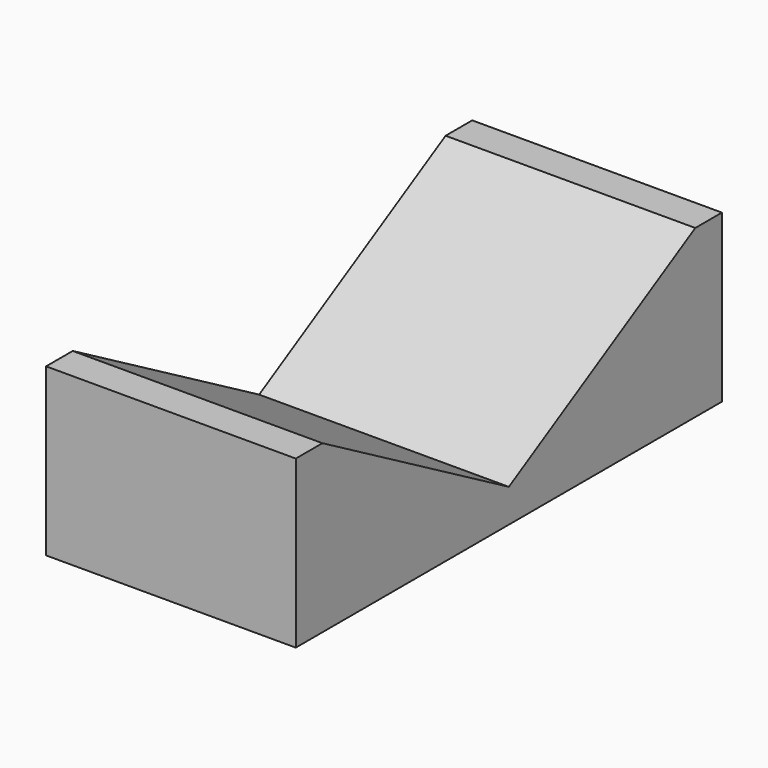
from build123d import *

# Parameters (mm, degrees)
F1_DEPTH = 15


with BuildPart() as f1:
    # F0 (on Right) → F1 (new body)
    with BuildSketch(Plane.YZ):
        Polygon((0, 2), (0, 0), (16, 0), (16, 10), (14, 10), align=None)
    extrude(amount=F1_DEPTH)

    # F2: F1 across face


with BuildPart() as f1_1:
    add(f1.part)
    add(f1.part.mirror(Plane(origin=(7.5, 0, 1), x_dir=(1, 0, 0), z_dir=(0, -1, 0))))


solid = f1_1.part
